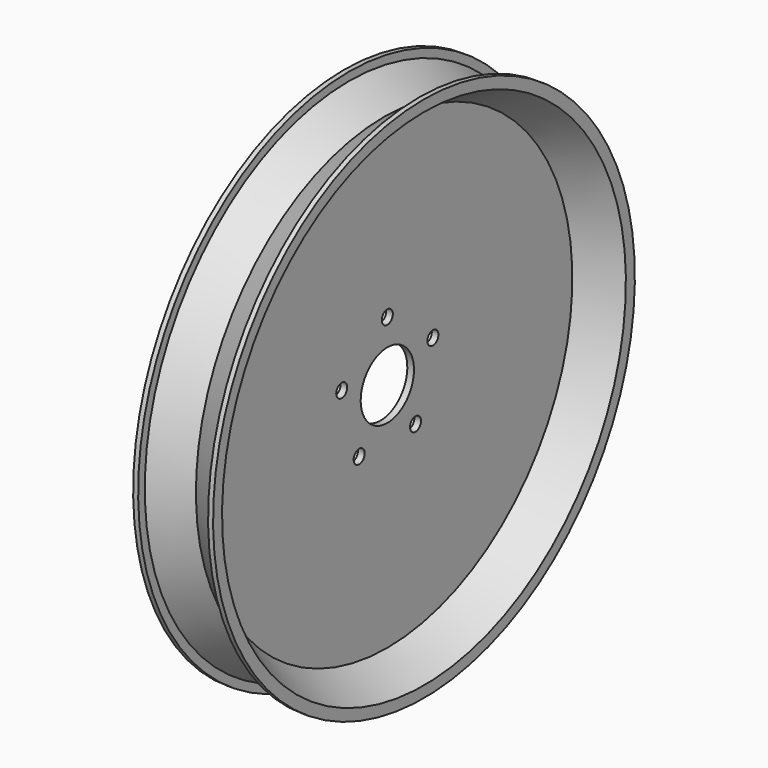
from build123d import *

# Parameters (mm, degrees)
F3_D = 13.1064


with BuildPart() as f1:
    # F0 (on Front) → F1 (revolve)
    with BuildSketch(Plane.XZ):
        Polygon((-3.175, 220.4975482247), (-3.175, 31.75), (3.175, 31.75), (3.175, 220.4975482247), (38.1, 240.6615063761), (38.1, 251.3486370331), (33.3375, 251.3486370331), (33.3375, 243.4111370331), (0, 224.163722434), (-33.3375, 243.4111370331), (-33.3375, 251.3486370331), (-38.1, 251.3486370331), (-38.1, 240.6615063761), align=None)
    revolve(axis=Axis((42.5242893398, 0, 0), (1, 0, 0)))

    # F3 (through all)
    with Locations(Plane.YZ.offset(3.175)):
        with Locations((0, 57.15), (54.3528799063, 17.6603212285), (33.5919271685, -46.2353212285), (-33.5919271685, -46.2353212285), (-54.3528799063, 17.6603212285)):
            Hole(F3_D / 2)


solid = f1.part
